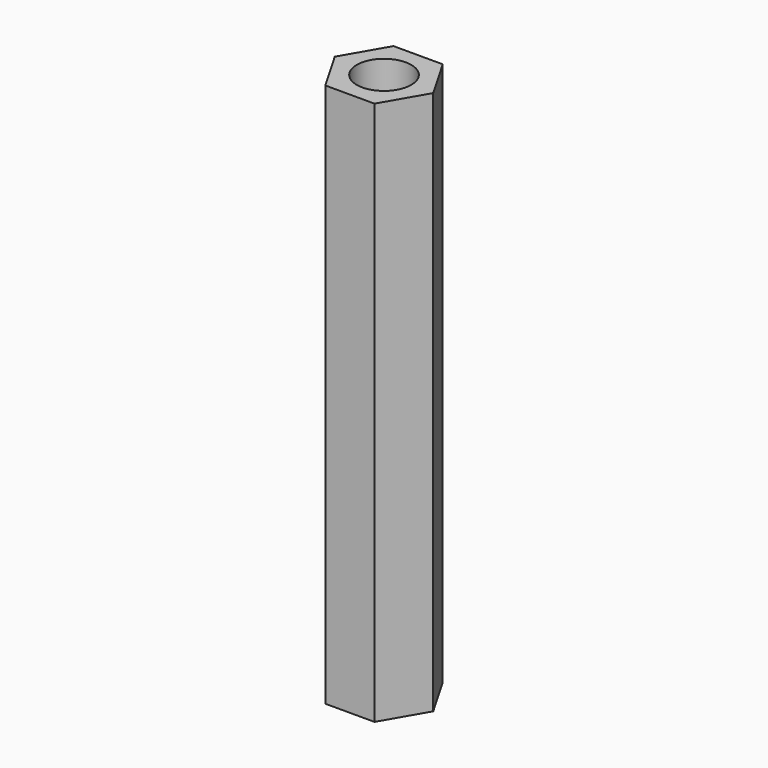
from build123d import *

# Parameters (mm, degrees)
SKETCH_R  = 1.5
PAD_DEPTH = 30


with BuildPart() as part:
    # Sketch → Pad (new body)
    with BuildSketch(Plane.XY):
        Polygon((1.356773, -2.35), (2.713546, 0), (1.356773, 2.35), (-1.356773, 2.35), (-2.713546, 0), (-1.356773, -2.35), align=None)
        Circle(SKETCH_R, mode=Mode.SUBTRACT)
    extrude(amount=PAD_DEPTH)


solid = part.part
